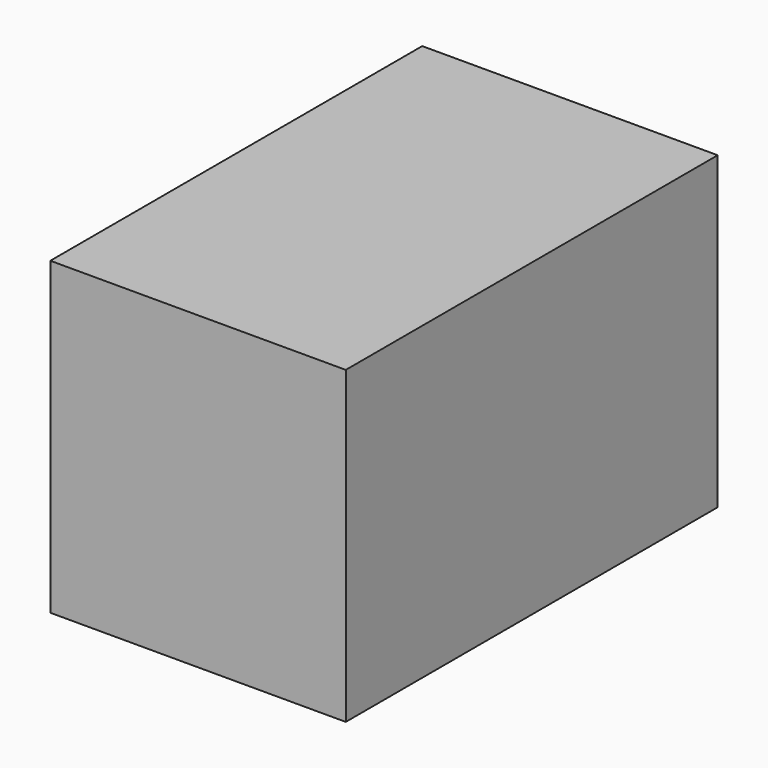
from build123d import *

# Parameters (mm, degrees)
F0_W     = 286
F0_H     = 300
F1_DEPTH = 450
F2_W     = 256
F2_H     = 420
F3_DEPTH = 285


with BuildPart() as f1:
    # F0 (on Front) → F1 (new body)
    with BuildSketch(Plane.XZ):
        with Locations((4.5212, 65.366075)):
            Rectangle(F0_W, F0_H)
    extrude(amount=-F1_DEPTH)

    # F2 (on face) → F3 (join)
    with BuildSketch(Plane.XY.offset(215.366075)):
        with Locations((4.5212, 225)):
            Rectangle(F2_W, F2_H)
    extrude(amount=-F3_DEPTH)


solid = f1.part
